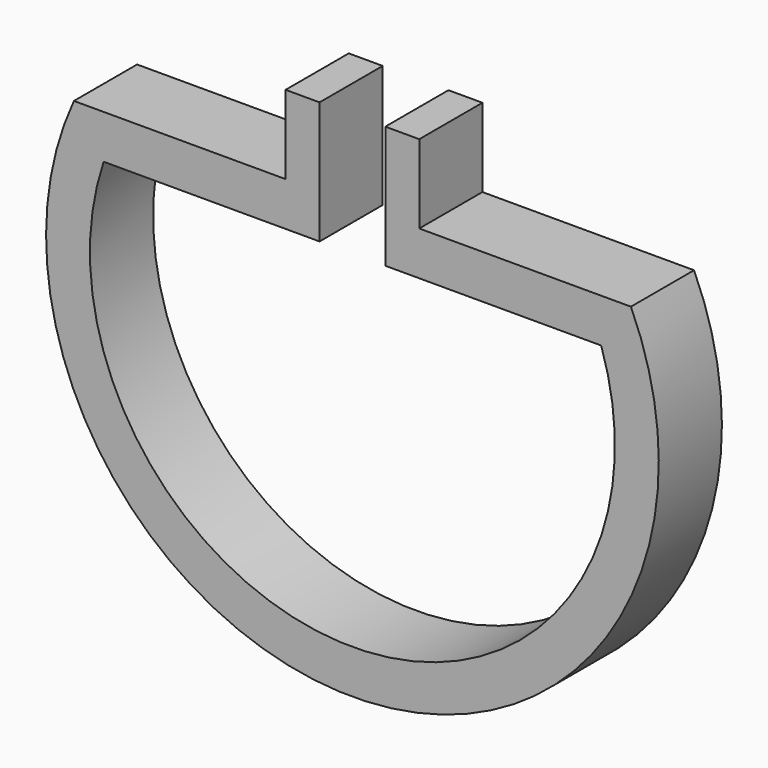
from build123d import *

# Parameters (mm, degrees)
F1_DEPTH = 17.99844
F3_DEPTH = 17.99944


with BuildPart() as f1:
    # F0 (on Front) → F1 (new body)
    with BuildSketch(Plane.XZ):
        with BuildLine():
            Line((-15.24, 29.099356), (-63.5, 29.099356))
            ThreePointArc((-63.5, 29.099356), (0, -69.85), (63.5, 29.099356))
            Line((63.5, 29.099356), (15.24, 29.099356))
            Line((15.24, 29.099356), (15.24, 47.024507))
            Line((15.24, 47.024507), (-15.24, 47.024507))
            Line((-15.24, 47.024507), (-15.24, 29.099356))
        make_face()
    extrude(amount=F1_DEPTH)

    # F2 (on face) → F3 (cut, through all)
    with BuildSketch(Plane.XZ.offset(17.99844)):
        with BuildLine():
            Line((-7.493, 19.099376), (-56.720708, 19.099376))
            ThreePointArc((-56.720708, 19.099376), (0, -59.85002), (56.720708, 19.099376))
            Line((56.720708, 19.099376), (7.493, 19.099376))
            Line((7.493, 19.099376), (7.493, 47.024507))
            Line((7.493, 47.024507), (-7.493, 47.024507))
            Line((-7.493, 47.024507), (-7.493, 19.099376))
        make_face()
    extrude(amount=-F3_DEPTH, mode=Mode.SUBTRACT)


solid = f1.part
